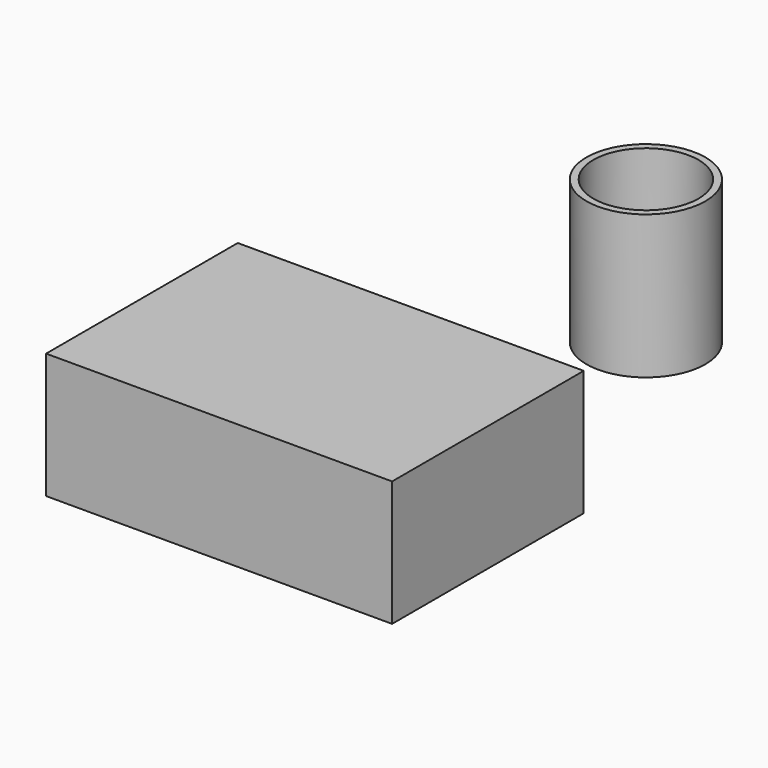
from build123d import *

# Parameters (mm, degrees)
F0_W     = 127
F0_H     = 87.92308
F1_DEPTH = 46.03194
F2_R     = 21.825015
F3_DEPTH = 52.68303
F4_T     = -2.54


with BuildPart() as f1:
    # F0 (on Top) → F1 (new body)
    with BuildSketch(Plane.XY):
        with Locations((-6.101284, 4.575962)):
            Rectangle(F0_W, F0_H)
    extrude(amount=-F1_DEPTH)


with BuildPart() as f3:
    # F2 (on Top) → F3 (new body)
    with BuildSketch(Plane.XY):
        with Locations((60.258288, 73.482439)):
            Circle(F2_R)
    extrude(amount=F3_DEPTH)

    # F4
    f4_openings = [f3.faces().sort_by_distance(p)[0] for p in [
        (60.258288, 73.482439, 52.68303),
        (60.258288, 73.482439, 0),
    ]]
    offset(amount=F4_T, openings=f4_openings)


solid = Compound([f1.part, f3.part])
